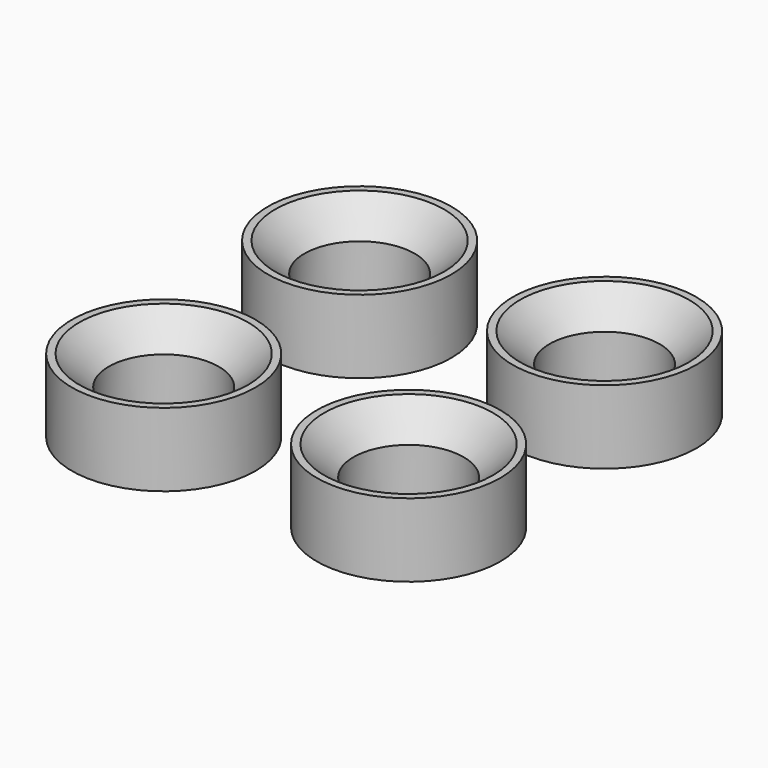
from build123d import *

# Parameters (mm, degrees)
F0_R     = 3.75
F0_R_2   = 2.25
F1_DEPTH = 3
F2_SIZE  = 1.2


with BuildPart() as f1:
    # F0 (on Top) → F1 (new body)
    with BuildSketch(Plane.XY):
        Circle(F0_R)
        Circle(F0_R_2, mode=Mode.SUBTRACT)
    extrude(amount=F1_DEPTH)

    # F2
    f2_edges = [f1.edges().sort_by_distance(p)[0] for p in [
        (-2.25, 0, 3),
    ]]
    chamfer(f2_edges, length=F2_SIZE)


with BuildPart() as f3_1:
    # F3: copy of F1
    add(f1.part.moved(Location((10, 0, 0))))


with BuildPart() as f4_1:
    # F4: copy of F1
    add(f1.part.moved(Location((0, 10, 0))))


with BuildPart() as f5_1:
    # F5: copy of F1
    add(f1.part.moved(Location((10, 10, 0))))


solid = Compound([f1.part, f3_1.part, f4_1.part, f5_1.part])
